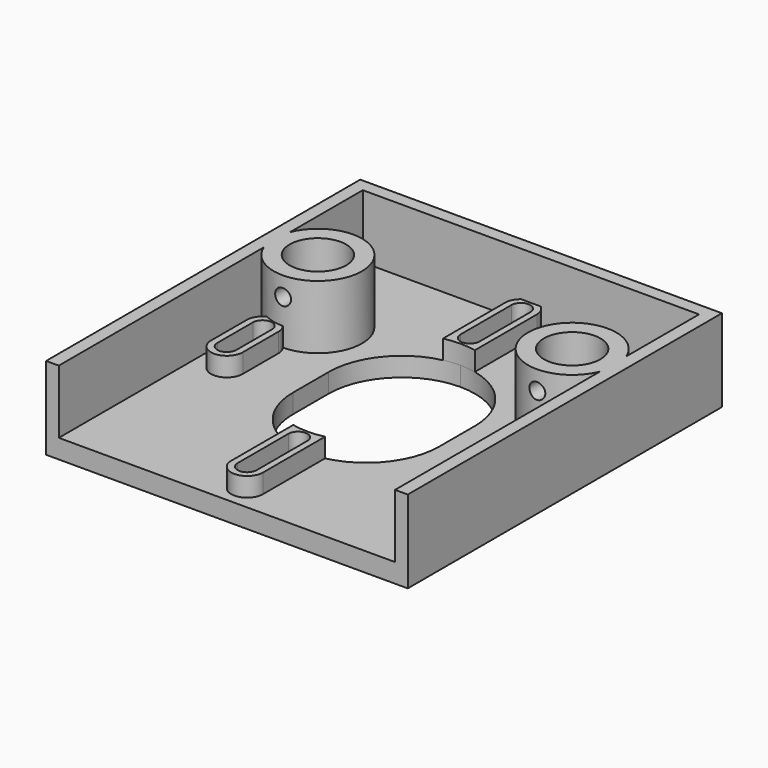
from build123d import *

# Parameters (mm, degrees)
F0_W     = 56.9
F0_H     = 61.77927
F0_R     = 4.45
F1_DEPTH = 3
F2_R     = 4.45
F4_DEPTH = 10
F5_DEPTH = 3
F6_R     = 1.25
F7_DEPTH = 40


with BuildPart() as f1:
    # F0 (on Top) → F1 (new body)
    with BuildSketch(Plane.XY):
        Rectangle(F0_W, F0_H)
        with BuildLine():
            Line((1.5, -16.92031), (1.5, -26.92031))
            ThreePointArc((1.5, -26.92031), (1.06066, -27.98097), (0, -28.42031))
            ThreePointArc((0, -28.42031), (-1.06066, -27.98097), (-1.5, -26.92031))
            Line((-1.5, -26.92031), (-1.5, -16.92031))
            ThreePointArc((-1.5, -16.92031), (-1.06066, -15.85965), (0, -15.42031))
            ThreePointArc((0, -15.42031), (1.06066, -15.85965), (1.5, -16.92031))
        make_face(mode=Mode.SUBTRACT)
        with BuildLine():
            Line((-23.42031, -3.5), (-23.42031, 0))
            Line((-23.42031, 0), (-23.42031, 3.5))
            ThreePointArc((-23.42031, 3.5), (-21.92031, 5), (-20.42031, 3.5))
            Line((-20.42031, 3.5), (-20.42031, 0))
            Line((-20.42031, 0), (-20.42031, -3.5))
            ThreePointArc((-20.42031, -3.5), (-21.92031, -5), (-23.42031, -3.5))
        make_face(mode=Mode.SUBTRACT)
        with Locations((-20, 12)):
            Circle(F0_R, mode=Mode.SUBTRACT)
        with BuildLine():
            Line((-11.5, -3.5), (-11.5, 0))
            Line((-11.5, 0), (-11.5, 3.5))
            ThreePointArc((-11.5, 3.5), (-8.131728, 11.631728), (0, 15))
            ThreePointArc((0, 15), (8.131728, 11.631728), (11.5, 3.5))
            Line((11.5, 3.5), (11.5, 0))
            Line((11.5, 0), (11.5, -3.5))
            ThreePointArc((11.5, -3.5), (8.131728, -11.631728), (0, -15))
            ThreePointArc((0, -15), (-8.131728, -11.631728), (-11.5, -3.5))
        make_face(mode=Mode.SUBTRACT)
        with BuildLine():
            Line((20.42031, -3.5), (20.42031, 0))
            Line((20.42031, 0), (20.42031, 3.5))
            ThreePointArc((20.42031, 3.5), (21.92031, 5), (23.42031, 3.5))
            Line((23.42031, 3.5), (23.42031, 0))
            Line((23.42031, 0), (23.42031, -3.5))
            ThreePointArc((23.42031, -3.5), (21.92031, -5), (20.42031, -3.5))
        make_face(mode=Mode.SUBTRACT)
        with Locations((20, 12)):
            Circle(F0_R, mode=Mode.SUBTRACT)
        with BuildLine():
            Line((-1.5, 16.92031), (-1.5, 26.92031))
            ThreePointArc((-1.5, 26.92031), (-1.06066, 27.98097), (0, 28.42031))
            ThreePointArc((0, 28.42031), (1.06066, 27.98097), (1.5, 26.92031))
            Line((1.5, 26.92031), (1.5, 16.92031))
            ThreePointArc((1.5, 16.92031), (1.06066, 15.85965), (0, 15.42031))
            ThreePointArc((0, 15.42031), (-1.06066, 15.85965), (-1.5, 16.92031))
        make_face(mode=Mode.SUBTRACT)
    extrude(amount=F1_DEPTH)

    # F2 (on face) → F4 (join)
    with BuildSketch(Plane.XY.offset(3)):
        with BuildLine():
            Line((-26.45, -30.889635), (-26.45, 9.411564))
            ThreePointArc((-26.45, 9.411564), (-13.05, 12), (-26.45, 14.588436))
            Line((-26.45, 14.588436), (-26.45, 28.889635))
            Line((-26.45, 28.889635), (26.45, 28.889635))
            Line((26.45, 28.889635), (26.45, 14.588436))
            ThreePointArc((26.45, 14.588436), (13.05, 12), (26.45, 9.411564))
            Line((26.45, 9.411564), (26.45, -30.889635))
            Line((26.45, -30.889635), (28.45, -30.889635))
            Line((28.45, -30.889635), (28.45, 30.889635))
            Line((28.45, 30.889635), (-28.45, 30.889635))
            Line((-28.45, 30.889635), (-28.45, -30.889635))
            Line((-28.45, -30.889635), (-26.45, -30.889635))
        make_face()
        with Locations((-20, 12)):
            Circle(F2_R, mode=Mode.SUBTRACT)
        with Locations((20, 12)):
            Circle(F2_R, mode=Mode.SUBTRACT)
    extrude(amount=F4_DEPTH)

    # F3 (on face) → F5 (join)
    with BuildSketch(Plane.XY.offset(3)):
        with BuildLine():
            ThreePointArc((-19.42031, 3.5), (-21.92031, 6), (-24.42031, 3.5))
            Line((-24.42031, 3.5), (-24.42031, -3.5))
            ThreePointArc((-24.42031, -3.5), (-21.92031, -6), (-19.42031, -3.5))
            Line((-19.42031, -3.5), (-19.42031, 3.5))
        make_face()
        with BuildLine():
            ThreePointArc((-23.42031, 3.5), (-21.92031, 5), (-20.42031, 3.5))
            Line((-20.42031, 3.5), (-20.42031, -3.5))
            ThreePointArc((-20.42031, -3.5), (-21.92031, -5), (-23.42031, -3.5))
            Line((-23.42031, -3.5), (-23.42031, 3.5))
        make_face(mode=Mode.SUBTRACT)
        with BuildLine():
            Line((2.5, 16.92031), (2.5, 26.92031))
            ThreePointArc((2.5, 26.92031), (0, 29.42031), (-2.5, 26.92031))
            Line((-2.5, 26.92031), (-2.5, 16.92031))
            Line((-2.5, 16.92031), (-2.5, 14.724972))
            ThreePointArc((-2.5, 14.724972), (0, 15), (2.5, 14.724972))
            Line((2.5, 14.724972), (2.5, 16.92031))
        make_face()
        with BuildLine():
            Line((-1.5, 16.92031), (-1.5, 26.92031))
            ThreePointArc((-1.5, 26.92031), (0, 28.42031), (1.5, 26.92031))
            Line((1.5, 26.92031), (1.5, 16.92031))
            ThreePointArc((1.5, 16.92031), (0, 15.42031), (-1.5, 16.92031))
        make_face(mode=Mode.SUBTRACT)
        with BuildLine():
            Line((24.42031, -3.5), (24.42031, 3.5))
            ThreePointArc((24.42031, 3.5), (21.92031, 6), (19.42031, 3.5))
            Line((19.42031, 3.5), (19.42031, -3.5))
            ThreePointArc((19.42031, -3.5), (21.92031, -6), (24.42031, -3.5))
        make_face()
        with BuildLine():
            ThreePointArc((20.42031, 3.5), (21.92031, 5), (23.42031, 3.5))
            Line((23.42031, 3.5), (23.42031, -3.5))
            ThreePointArc((23.42031, -3.5), (21.92031, -5), (20.42031, -3.5))
            Line((20.42031, -3.5), (20.42031, 3.5))
        make_face(mode=Mode.SUBTRACT)
        with BuildLine():
            ThreePointArc((-2.5, -26.92031), (0, -29.42031), (2.5, -26.92031))
            Line((2.5, -26.92031), (2.5, -16.92031))
            Line((2.5, -16.92031), (2.5, -14.724972))
            ThreePointArc((2.5, -14.724972), (0, -15), (-2.5, -14.724972))
            Line((-2.5, -14.724972), (-2.5, -16.92031))
            Line((-2.5, -16.92031), (-2.5, -26.92031))
        make_face()
        with BuildLine():
            Line((1.5, -16.92031), (1.5, -26.92031))
            ThreePointArc((1.5, -26.92031), (0, -28.42031), (-1.5, -26.92031))
            Line((-1.5, -26.92031), (-1.5, -16.92031))
            ThreePointArc((-1.5, -16.92031), (0, -15.42031), (1.5, -16.92031))
        make_face(mode=Mode.SUBTRACT)
    extrude(amount=F5_DEPTH)

    # F6 (on face) → F7 (cut)
    with BuildSketch(Plane.XZ.offset(30.889635)):
        with Locations((-20, 10)):
            Circle(F6_R)
        with Locations((20, 10)):
            Circle(F6_R)
    extrude(amount=-F7_DEPTH, mode=Mode.SUBTRACT)


solid = f1.part
